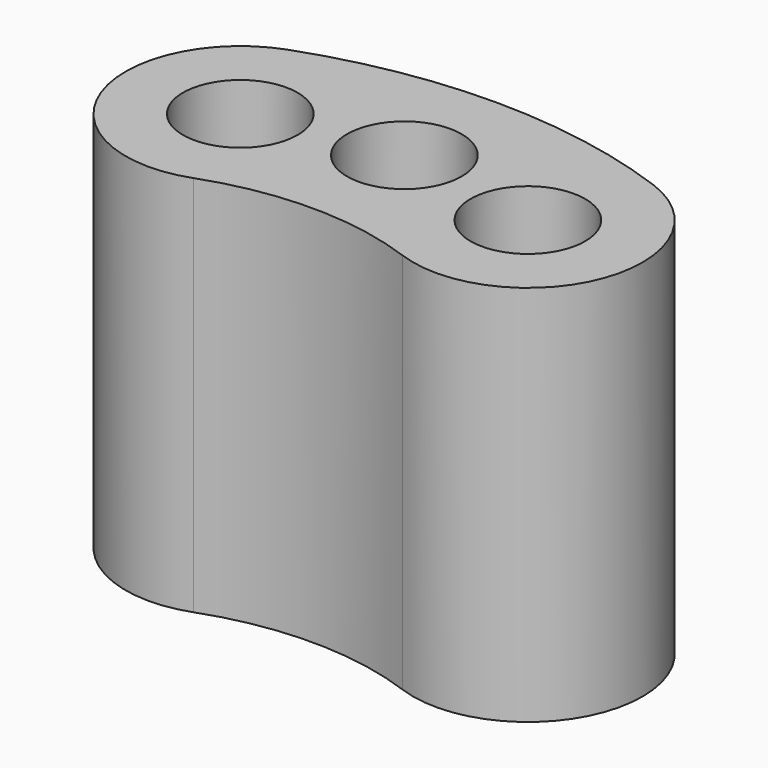
from build123d import *

# Parameters (mm, degrees)
SKETCH_R  = 1.5
PAD_DEPTH = 10


with BuildPart() as part:
    # Sketch → Pad (new body)
    with BuildSketch(Plane.XY):
        with BuildLine():
            ThreePointArc((-4.788282, 13.155697), (-6.581299, 9.310558), (-2.736161, 7.517541))
            ThreePointArc((2.736161, 7.517541), (0, 8), (-2.736161, 7.517541))
            ThreePointArc((2.736161, 7.517541), (6.581299, 9.310558), (4.788282, 13.155697))
            ThreePointArc((4.788282, 13.155697), (0, 14), (-4.788282, 13.155697))
        make_face()
        with Locations((-3.762222, 10.336619)):
            Circle(SKETCH_R, mode=Mode.SUBTRACT)
        with Locations((3.762222, 10.336619)):
            Circle(SKETCH_R, mode=Mode.SUBTRACT)
        with Locations((0, 11)):
            Circle(SKETCH_R, mode=Mode.SUBTRACT)
    extrude(amount=PAD_DEPTH)


solid = part.part
